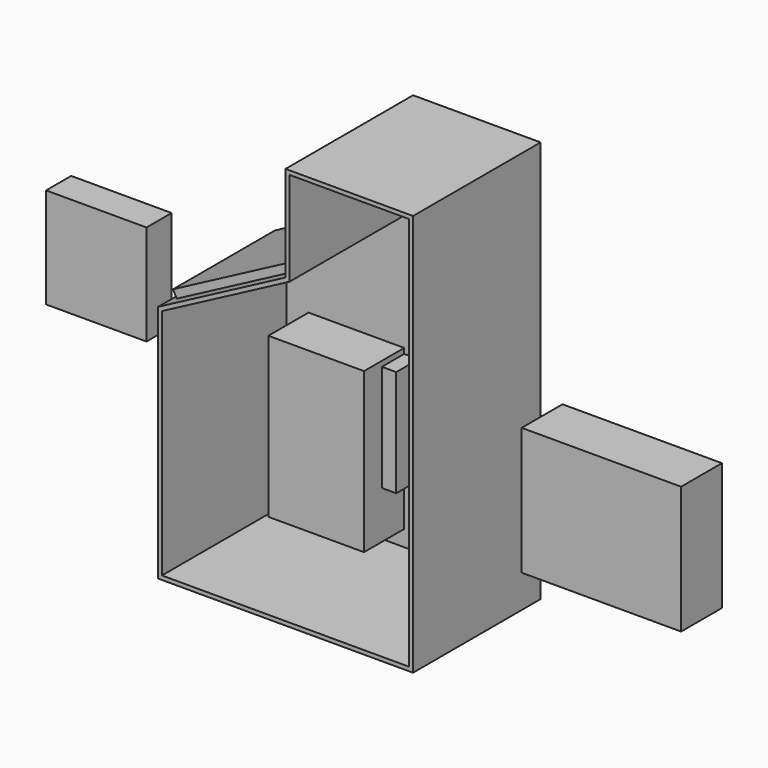
from build123d import *

# Parameters (mm, degrees)
F1_DEPTH  = 127
F2_DEPTH  = 3.175
F3_W      = 56
F3_H      = 85.000084
F4_DEPTH  = 25.4
F5_W      = 76.2
F5_H      = 127
F6_DEPTH  = 43.18
F7_W      = 127
F7_H      = 101.6
F8_DEPTH  = 40.64
F9_W      = 80
F9_H      = 80
F10_DEPTH = 25
F11_W     = 101.6
F11_H     = 101.6
F12_DEPTH = 6.35
F13_R     = 9.525
F14_DEPTH = 6.35


with BuildPart() as f1:
    # F0 (on Front) → F1 (new body)
    with BuildSketch(Plane.XZ):
        Polygon((-69.4583011687, 64.3037520634), (-69.4583011687, -126.1962479366), (133.7416988313, -126.1962479366), (133.7416988313, 105.5787520634), (133.7416988313, 194.1259615968), (32.1416988313, 194.1259615968), (32.1416988313, 117.9259615968), align=None)
        Polygon((-66.2833011687, -123.0212479366), (-66.2833011687, 62.3893798805), (35.3166988313, 116.0115894138), (35.3166988313, 190.9509615968), (130.5666988313, 190.9509615968), (130.5666988313, 105.5787520634), (130.5666988313, -123.0212479366), align=None, mode=Mode.SUBTRACT)
    extrude(amount=F1_DEPTH)

    # F0 (on Front) → F2 (join)
    with BuildSketch(Plane.XZ):
        Polygon((35.3166988313, 116.0115894138), (-66.2833011687, 62.3893798805), (-66.2833011687, -123.0212479366), (130.5666988313, -123.0212479366), (130.5666988313, 105.5787520634), (130.5666988313, 190.9509615968), (35.3166988313, 190.9509615968), align=None)
    extrude(amount=F2_DEPTH)

    # F11 (on face) → F12 (join)
    with BuildSketch(Plane(origin=(-41.6766433185, 0, 78.9662902369), x_dir=(0.8843847984, 0, 0.4667585332), z_dir=(-0.4667585332, 0, 0.8843847984))):
        with Locations((26.1407637417, -65.0126294613)):
            Rectangle(F11_W, F11_H)
    extrude(amount=F12_DEPTH)

    # F13 (on face) → F14 (join)
    with BuildSketch(Plane(origin=(32.1416988313, 0, 0), x_dir=(0, -1, 0), z_dir=(-1, 0, 0))):
        with Locations((30.9696756303, 156.0259615968)):
            Circle(F13_R)
        with Locations((90.4077887535, 156.0259615968)):
            Circle(F13_R)
    extrude(amount=F14_DEPTH)


with BuildPart() as f4:
    # F3 (on Front) → F4 (new body)
    with BuildSketch(Plane.XZ):
        with Locations((11.0449163035, -29.9619909192)):
            Rectangle(F3_W, F3_H)
    extrude(amount=F4_DEPTH)


with BuildPart() as f6:
    # F5 (on Front) → F6 (new body)
    with BuildSketch(Plane.XZ):
        with Locations((-10.4780673653, -46.7363045835)):
            Rectangle(F5_W, F5_H)
    extrude(amount=F6_DEPTH)


with BuildPart() as f8:
    # F7 (on Front) → F8 (new body)
    with BuildSketch(Plane.XZ):
        with Locations((214.6972416401, -34.6680016637)):
            Rectangle(F7_W, F7_H)
    extrude(amount=F8_DEPTH)


with BuildPart() as f10:
    # F9 (on Front) → F10 (new body)
    with BuildSketch(Plane.XZ):
        with Locations((-200.1996668577, 9.0134921074)):
            Rectangle(F9_W, F9_H)
    extrude(amount=F10_DEPTH)


solid = Compound([f1.part, f4.part, f6.part, f8.part, f10.part])
